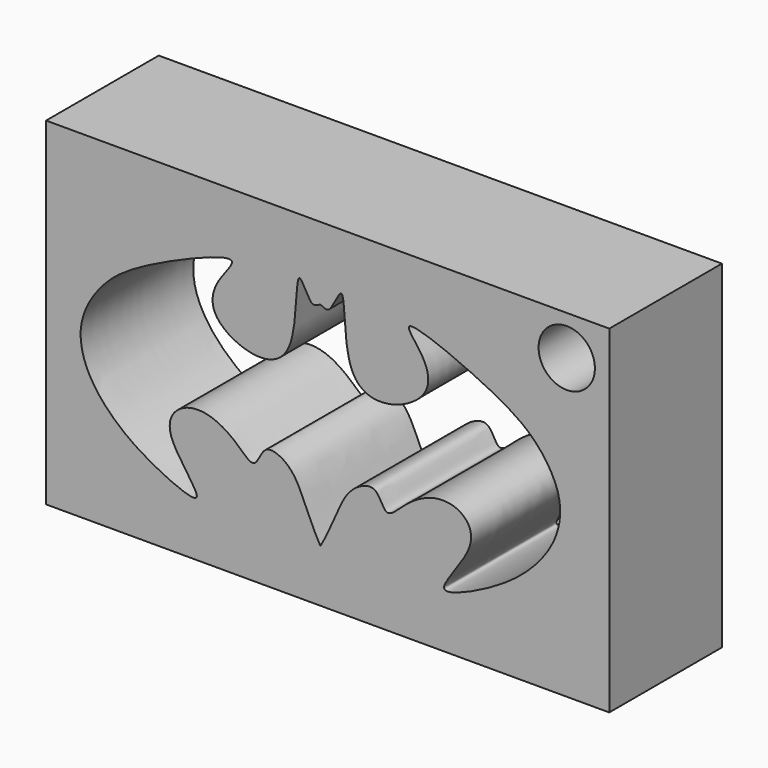
from build123d import *

# Parameters (mm, degrees)
F0_W     = 25.4
F0_H     = 15.24
F1_DEPTH = 6.35
F3_DEPTH = 25.4
F4_R     = 1.27
F5_DEPTH = 25.4


with BuildPart() as f1:
    # F0 (on Front) → F1 (new body)
    with BuildSketch(Plane.XZ):
        with Locations((12.7, 7.62)):
            Rectangle(F0_W, F0_H)
    extrude(amount=F1_DEPTH)

    # F2 (on Front) → F3 (cut)
    with BuildSketch(Plane.XZ):
        with BuildLine():
            Line((12.3721463606, 11.9587476503), (12.3721463606, 2.3688389957))
            add(Edge.make_bspline(
                [(12.3721463606, 2.3688389957), (12.8798818666, 3.253839677), (13.3239132431, 4.7532439376), (14.2481314523, 5.4378849052), (14.9786448919, 5.5189521355), (15.3132601715, 4.3152076509), (16.1892271784, 5.3561491541), (17.5384189563, 6.1340482576), (18.9119161102, 5.8490427604), (19.5359712542, 4.5083110403), (16.9638406912, 1.8133498989), (20.1857514323, 3.1697767846), (22.0032565254, 4.5457932459), (23.1158173657, 6.1526413773), (23.3155466844, 7.8927235516), (22.1951503384, 9.7268416533), (20.3757139118, 11.0281295239), (15.4808686845, 13.0688651615), (17.1506882734, 11.3881834955), (17.4442031295, 9.9351451634), (15.5208146658, 8.7412099043), (13.263481709, 9.2319894702), (13.5977067519, 13.7890758966), (12.8134433602, 11.6846764657), (12.5705341227, 11.8719918693), (12.3721463606, 11.9587476503)],
                knots=[0, 0, 0, 0, 0.0554889029, 0.0901263552, 0.1159647308, 0.1468265572, 0.1801089168, 0.2237067653, 0.2613397343, 0.2991315347, 0.3511469015, 0.3992669531, 0.4550645231, 0.5013729548, 0.5449707995, 0.592120693, 0.6486580299, 0.7155229911, 0.7516957124, 0.791701832, 0.8392225227, 0.886120269, 0.944653112, 0.9779354937, 1, 1, 1, 1], degree=3))
        make_face()
        with BuildLine():
            add(Edge.make_bspline(
                [(12.3721463606, 2.3688389957), (11.8644108545, 3.253839677), (11.4203794781, 4.7532439376), (10.4961612689, 5.4378849052), (9.7656478293, 5.5189521355), (9.4310325497, 4.3152076509), (8.5550655428, 5.3561491541), (7.2058737648, 6.1340482576), (5.832376611, 5.8490427604), (5.208321467, 4.5083110403), (7.78045203, 1.8133498989), (4.5585412889, 3.1697767846), (2.7410361958, 4.5457932459), (1.6284753554, 6.1526413773), (1.4287460368, 7.8927235516), (2.5491423827, 9.7268416533), (4.3685788093, 11.0281295239), (9.2634240366, 13.0688651615), (7.5936044477, 11.3881834955), (7.3000895916, 9.9351451634), (9.2234780554, 8.7412099043), (11.4808110121, 9.2319894702), (11.1465859692, 13.7890758966), (11.9308493609, 11.6846764657), (12.1737585985, 11.8719918693), (12.3721463606, 11.9587476503)],
                knots=[0, 0, 0, 0, 0.0554889029, 0.0901263552, 0.1159647308, 0.1468265572, 0.1801089168, 0.2237067653, 0.2613397343, 0.2991315347, 0.3511469015, 0.3992669531, 0.4550645231, 0.5013729548, 0.5449707995, 0.592120693, 0.6486580299, 0.7155229911, 0.7516957124, 0.791701832, 0.8392225227, 0.886120269, 0.944653112, 0.9779354937, 1, 1, 1, 1], degree=3))
            Line((12.3721463606, 2.3688389957), (12.3721463606, 11.9587476503))
        make_face()
    extrude(amount=F3_DEPTH, mode=Mode.SUBTRACT)

    # F4 (on Front) → F5 (cut)
    with BuildSketch(Plane.XZ):
        with Locations((23.4817247838, 13.4499603882)):
            Circle(F4_R)
    extrude(amount=F5_DEPTH, mode=Mode.SUBTRACT)


solid = f1.part
